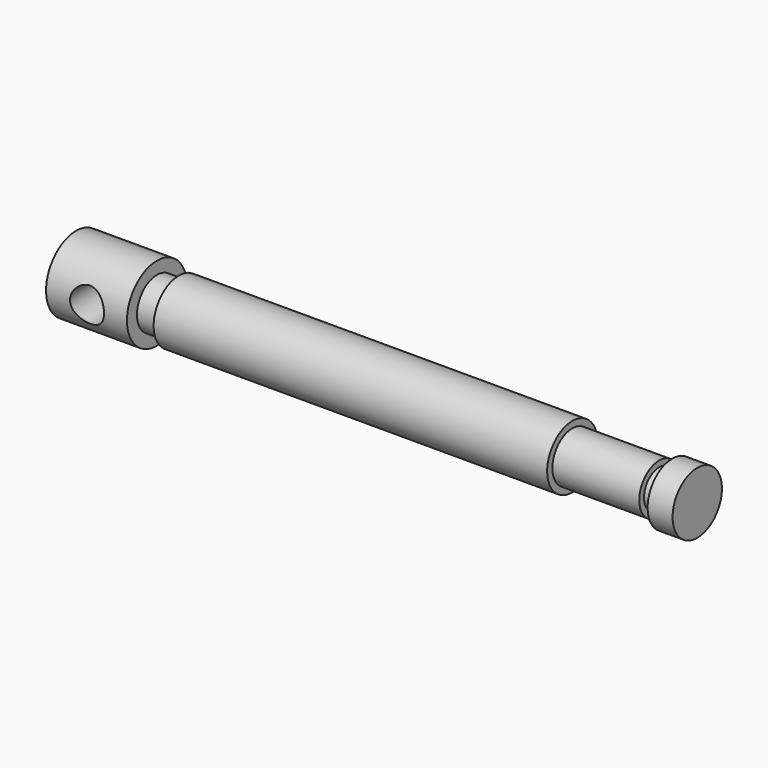
from build123d import *

# Parameters (mm, degrees)
F2_R     = 4.318
F3_DEPTH = 127


with BuildPart() as f1:
    # F0 (on Front) → F1 (revolve)
    with BuildSketch(Plane.XZ):
        Polygon((-75.958224, 16.798637), (-75.958224, 7.273637), (82.029776, 7.273637), (82.029776, 15.115878), (75.679776, 15.115878), (75.679776, 12.099637), (72.352376, 12.099637), (72.352376, 13.623637), (50.254376, 13.623637), (50.254376, 15.274637), (-49.821624, 15.274637), (-49.821624, 13.623637), (-55.384224, 13.623637), (-55.384224, 16.798637), align=None)
        Polygon((-75.958224, 16.798637), (-75.958224, 7.273637), (82.029776, 7.273637), (82.029776, 15.115878), (75.679776, 15.115878), (75.679776, 12.099637), (72.352376, 12.099637), (72.352376, 13.623637), (50.254376, 13.623637), (50.254376, 15.274637), (-49.821624, 15.274637), (-49.821624, 13.623637), (-55.384224, 13.623637), (-55.384224, 16.798637), align=None)
    revolve(axis=Axis((3.035776, 0, 7.273637), (1, 0, 0)))

    # F2 (on Front) → F3 (cut, symmetric)
    with BuildSketch(Plane.XZ):
        with Locations((-65.544224, 7.084235)):
            Circle(F2_R)
    extrude(amount=F3_DEPTH, both=True, mode=Mode.SUBTRACT)


solid = f1.part
